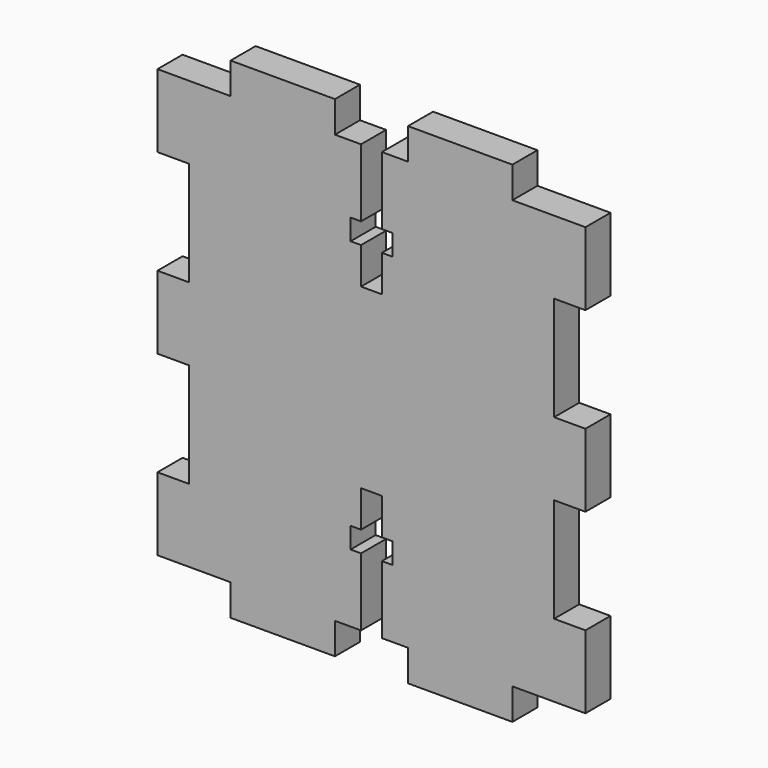
from build123d import *

# Parameters (mm, degrees)
F1_DEPTH = 3


with BuildPart() as f1:
    # F0 (on Front) → F1 (new body)
    with BuildSketch(Plane.XZ):
        Polygon((-48.374606, 20.557488), (-48.374606, 17.057488), (-49.374606, 17.057488), (-50.374606, 17.057488), (-50.374606, 20.557488), (-51.374606, 20.557488), (-51.374606, 22.557488), (-50.374606, 22.557488), (-50.374606, 29.057488), (-52.874606, 29.057488), (-52.874606, 32.057488), (-62.874606, 32.057488), (-62.874606, 29.057488), (-69.874606, 29.057488), (-69.874606, 22.057488), (-66.874606, 22.057488), (-66.874606, 12.057488), (-69.874606, 12.057488), (-69.874606, 8.557488), (-69.874606, 5.057488), (-66.874606, 5.057488), (-66.874606, -4.942512), (-69.874606, -4.942512), (-69.874606, -11.942512), (-62.874606, -11.942512), (-62.874606, -14.942512), (-52.874606, -14.942512), (-52.874606, -11.942512), (-50.374606, -11.942512), (-50.374606, -5.442512), (-51.374606, -5.442512), (-51.374606, -3.442512), (-50.374606, -3.442512), (-50.374606, 0.057488), (-49.374606, 0.057488), (-48.374606, 0.057488), (-48.374606, -3.442512), (-47.374606, -3.442512), (-47.374606, -5.442512), (-48.374606, -5.442512), (-48.374606, -11.942512), (-45.874606, -11.942512), (-45.874606, -14.942512), (-35.874606, -14.942512), (-35.874606, -11.942512), (-28.874606, -11.942512), (-28.874606, -4.942512), (-31.874606, -4.942512), (-31.874606, 5.057488), (-28.874606, 5.057488), (-28.874606, 8.557488), (-28.874606, 12.057488), (-31.874606, 12.057488), (-31.874606, 22.057488), (-28.874606, 22.057488), (-28.874606, 29.057488), (-35.874606, 29.057488), (-35.874606, 32.057488), (-45.874606, 32.057488), (-45.874606, 29.057488), (-48.374606, 29.057488), (-48.374606, 22.557488), (-47.374606, 22.557488), (-47.374606, 20.557488), align=None)
    extrude(amount=F1_DEPTH)


solid = f1.part
